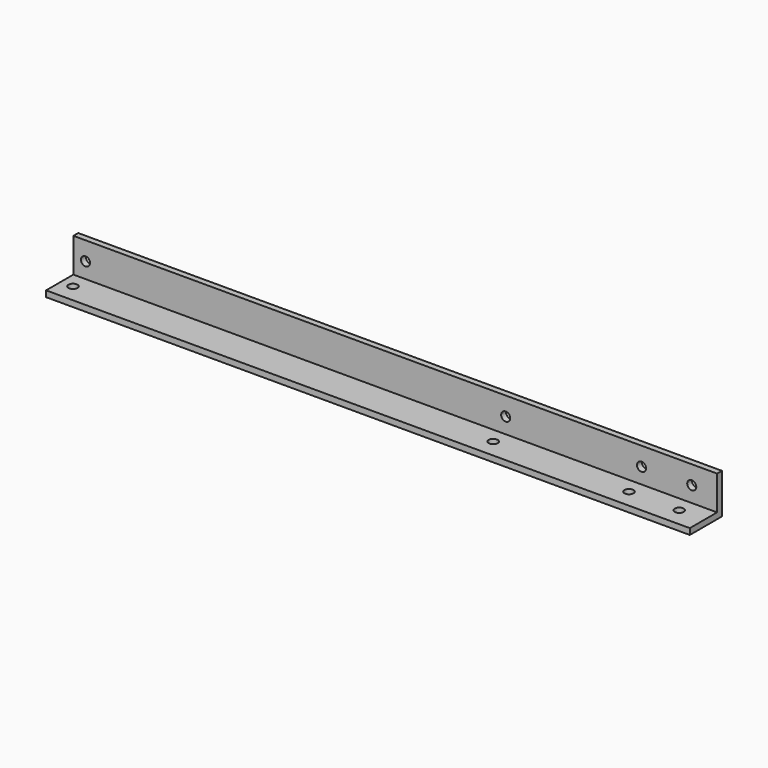
from build123d import *

# Parameters (mm, degrees)
F0_W     = 320
F0_H     = 19.95
F0_R     = 2.25
F1_DEPTH = 3
F2_W     = 320
F2_H     = 3
F3_DEPTH = 16.98
F6_R     = 2.25
F7_DEPTH = 3.001


with BuildPart() as f1:
    # F0 (on Top) → F1 (new body)
    with BuildSketch(Plane.XY):
        with Locations((160, 9.975)):
            Rectangle(F0_W, F0_H)
        with Locations((6.05, 9.18)):
            Circle(F0_R, mode=Mode.SUBTRACT)
        with Locations((214.92, 9.18)):
            Circle(F0_R, mode=Mode.SUBTRACT)
        with Locations((282.43, 9.18)):
            Circle(F0_R, mode=Mode.SUBTRACT)
        with Locations((307.4, 9.18)):
            Circle(F0_R, mode=Mode.SUBTRACT)
    extrude(amount=F1_DEPTH)

    # F2 (on face) → F3 (join)
    with BuildSketch(Plane.XY.offset(3)):
        with Locations((160, 18.45)):
            Rectangle(F2_W, F2_H)
    extrude(amount=F3_DEPTH)

    # F6 (on face) → F7 (cut, through all)
    with BuildSketch(Plane.XZ.offset(-16.95)):
        with Locations((307.4, 10.77)):
            Circle(F6_R)
        with Locations((282.43, 10.77)):
            Circle(F6_R)
        with Locations((214.92, 10.77)):
            Circle(F6_R)
        with Locations((6.05, 10.77)):
            Circle(F6_R)
    extrude(amount=-F7_DEPTH, mode=Mode.SUBTRACT)


solid = f1.part
